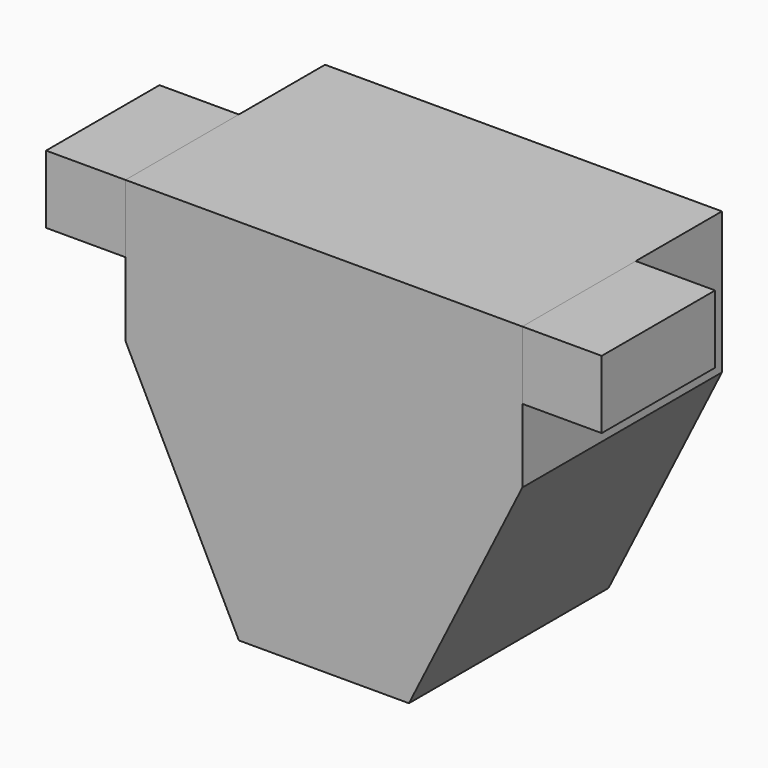
from build123d import *

# Parameters (mm, degrees)
F1_DEPTH = 440
F2_W     = 140
F2_H     = 120
F3_DEPTH = 250


with BuildPart() as f1:
    # F0 (on Front) → F1 (new body)
    with BuildSketch(Plane.XZ):
        Polygon((-150, -325), (150, -325), (350, 75), (350, 325), (-350, 325), (-350, 75), align=None)
    extrude(amount=F1_DEPTH)


with BuildPart() as f3:
    # F2 (on face) → F3 (new body)
    with BuildSketch(Plane.XZ.offset(440)):
        with Locations((420, 265)):
            Rectangle(F2_W, F2_H)
        with Locations((-420, 265)):
            Rectangle(F2_W, F2_H)
    extrude(amount=-F3_DEPTH)


solid = Compound([f1.part, f3.part])
